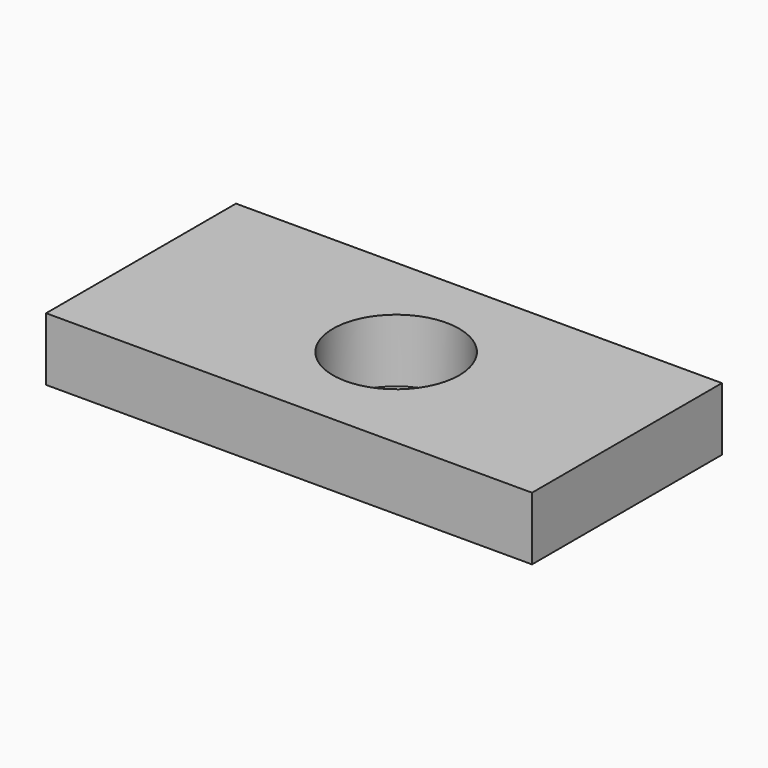
from build123d import *

# Parameters (mm, degrees)
SKETCH_W  = 230.942398
SKETCH_H  = 112.814285
SKETCH_R  = 30
PAD_DEPTH = 30


with BuildPart() as part:
    # Sketch → Pad (new body)
    with BuildSketch(Plane.XY):
        with Locations((-5.425507, -0.407142)):
            Rectangle(SKETCH_W, SKETCH_H)
        Circle(SKETCH_R, mode=Mode.SUBTRACT)
    extrude(amount=PAD_DEPTH)


solid = part.part
